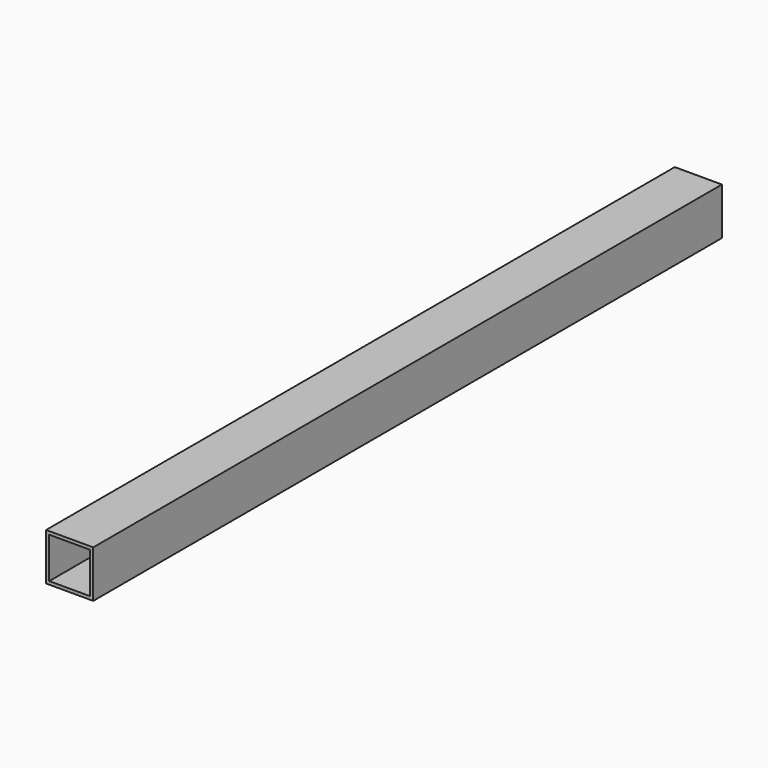
from build123d import *

# Parameters (mm, degrees)
SKETCH_W   = 30
SKETCH_H   = 30
SKETCH_W_2 = 26
SKETCH_H_2 = 26
PAD_DEPTH  = 500


with BuildPart() as part:
    # Sketch → Pad (new body)
    with BuildSketch(Plane.XZ):
        with Locations((15, 15)):
            Rectangle(SKETCH_W, SKETCH_H)
        with Locations((15, 15)):
            Rectangle(SKETCH_W_2, SKETCH_H_2, mode=Mode.SUBTRACT)
    extrude(amount=PAD_DEPTH)


solid = part.part
